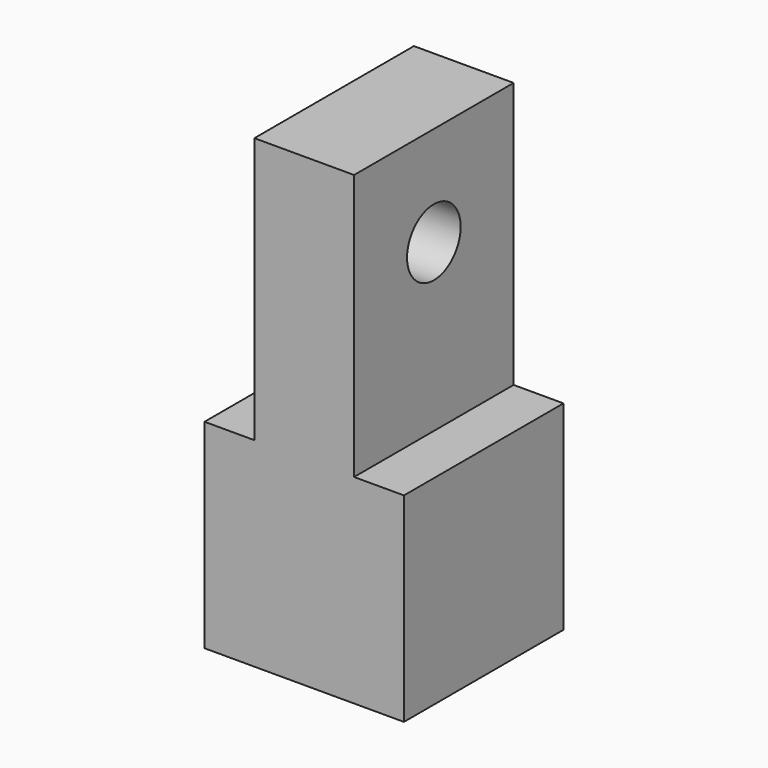
from build123d import *

# Parameters (mm, degrees)
F0_W     = 2.38125
F0_H     = 12.7
F1_DEPTH = 9.525
F3_D     = 3.2004
F5_D     = 5.1054
F5_DEPTH = 9.271
F5_TIP   = 1.5338169022


with BuildPart() as f1:
    # F0 (on Front) → F1 (new body)
    with BuildSketch(Plane.XZ):
        Polygon((0, -9.525), (0, 0), (-2.38125, 0), (-4.7625, 0), (-4.7625, -9.525), align=None)
        Polygon((2.38125, 0), (0, 0), (0, -9.525), (4.7625, -9.525), (4.7625, 0), align=None)
        with Locations((1.190625, 6.35)):
            Rectangle(F0_W, F0_H)
        with Locations((-1.190625, 6.35)):
            Rectangle(F0_W, F0_H)
    extrude(amount=F1_DEPTH)

    # F3 (through all)
    with Locations(Plane.YZ.offset(2.38125)):
        with Locations((-4.7625, 7.9375)):
            Hole(F3_D / 2)

    # F5
    with Locations(Plane(origin=(0, 0, -9.525), x_dir=(1, 0, 0), z_dir=(0, 0, -1))):
        with Locations((0, 4.7625)):
            Hole(F5_D / 2, depth=F5_DEPTH)
            with Locations((0, 0, -(F5_DEPTH + F5_TIP / 2))):  # 118° drill point
                Cone(0, F5_D / 2, F5_TIP, mode=Mode.SUBTRACT)


solid = f1.part
